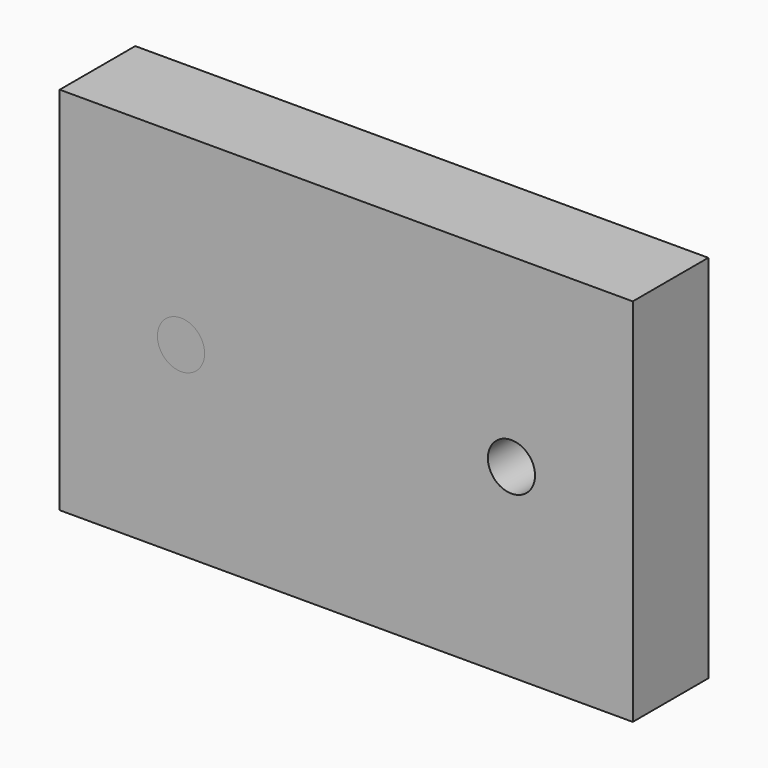
from build123d import *

# Parameters (mm, degrees)
F0_W     = 154.171794
F0_H     = 99.605352
F0_R     = 6.35
F1_DEPTH = 25.4
F2_DEPTH = 25.4


with BuildPart() as f1:
    # F0 (on Front) → F1 (new body)
    with BuildSketch(Plane.XZ):
        Rectangle(F0_W, F0_H)
        with Locations((-44.45, 0)):
            Circle(F0_R, mode=Mode.SUBTRACT)
        with Locations((44.45, 0)):
            Circle(F0_R, mode=Mode.SUBTRACT)
    extrude(amount=F1_DEPTH)


with BuildPart() as f2:
    # F0 (on Front) → F2 (new body)
    with BuildSketch(Plane.XZ):
        with Locations((-44.45, 0)):
            Circle(F0_R)
    extrude(amount=F2_DEPTH)


solid = Compound([f1.part, f2.part])
